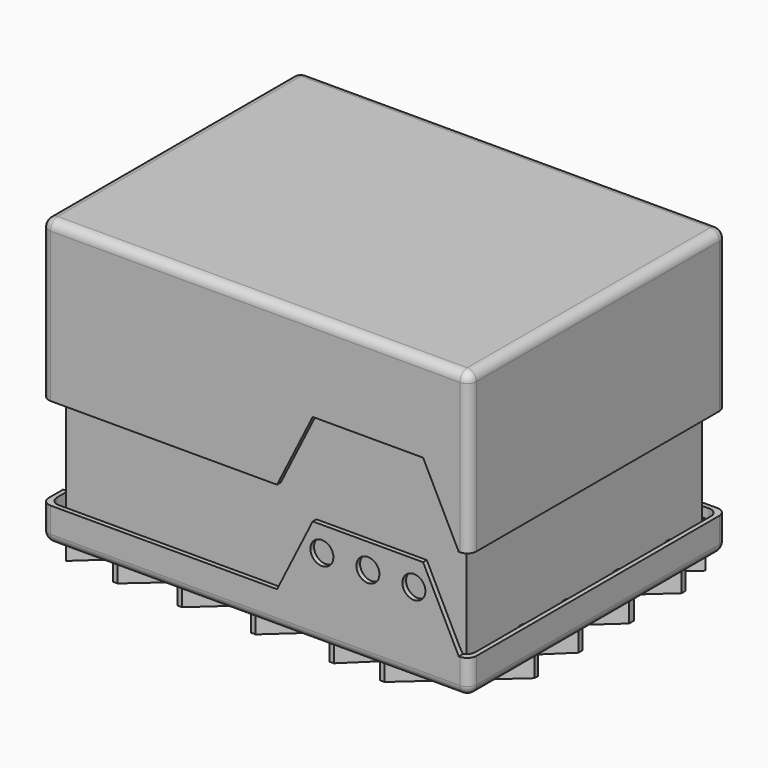
from build123d import *

# Parameters (mm, degrees)
BOX_W                    = 87
BOX_H                    = 64
BOX_DEPTH                = 40
BOX007_W                 = 89
BOX007_H                 = 66
BOX007_DEPTH             = 5
BOX006_W                 = 89
BOX006_H                 = 66
BOX006_DEPTH             = 10
PAD_DEPTH                = 15
PAD001_DEPTH             = 10
BOX005_W                 = 93
BOX005_H                 = 70
BOX005_DEPTH             = 7.5
CYLINDER016_R            = 4
CYLINDER016_DEPTH        = 10
CYLINDER017_R            = 4
CYLINDER017_DEPTH        = 10
CYLINDER014_R            = 1.25
CYLINDER014_DEPTH        = 30
CYLINDER015_R            = 1.75
CYLINDER015_DEPTH        = 5
CYLINDER013_R            = 1.25
CYLINDER013_DEPTH        = 30
CYLINDER012_R            = 1.75
CYLINDER012_DEPTH        = 5
CYLINDER011_R            = 2.5
CYLINDER011_DEPTH        = 10
CYLINDER011_ROLL_ANGLE   = 90
CYLINDER009_R            = 2.5
CYLINDER009_DEPTH        = 10
CYLINDER009_ROLL_ANGLE   = 90
CYLINDER010_R            = 2.5
CYLINDER010_DEPTH        = 10
CYLINDER010_ROLL_ANGLE   = 90
CYLINDER008_R            = 2.5
CYLINDER008_DEPTH        = 10
CYLINDER008_ROLL_ANGLE   = 90
CYLINDER007_R            = 2.5
CYLINDER007_DEPTH        = 10
CYLINDER007_ROLL_ANGLE   = 90
CYLINDER005_R            = 2.5
CYLINDER005_DEPTH        = 10
CYLINDER005_ROLL_ANGLE   = 90
CYLINDER006_R            = 2.5
CYLINDER006_DEPTH        = 10
CYLINDER006_ROLL_ANGLE   = 90
CYLINDER004_R            = 2.5
CYLINDER004_DEPTH        = 10
CYLINDER004_ROLL_ANGLE   = 90
BOX004_W                 = 10.6
BOX004_H                 = 10
BOX004_DEPTH             = 4.5
BOX003_W                 = 10
BOX003_H                 = 41.64
BOX003_DEPTH             = 6.1
CYLINDER_R               = 2.3
CYLINDER_DEPTH           = 5.5
CYLINDER002_R            = 2.3
CYLINDER002_DEPTH        = 5.5
CYLINDER003_R            = 2.3
CYLINDER003_DEPTH        = 41
CYLINDER001_R            = 2.3
CYLINDER001_DEPTH        = 41
BOX001_W                 = 91
BOX001_H                 = 68
BOX001_DEPTH             = 40
FILLET_R                 = 2
FILLET001_R              = 2
FILLET003_R              = 2
BOX002_W                 = 93
BOX002_H                 = 70
BOX002_DEPTH             = 42
FILLET002_R              = 2
CYLINDER019_R            = 3
CYLINDER019_DEPTH        = 6.8
CYLINDER018_R            = 3
CYLINDER018_DEPTH        = 6.8
PAD002_DEPTH             = 2
CLONE002_PLACEMENT_ANGLE = 90
CLONE003_PLACEMENT_ANGLE = 90
CLONE004_PLACEMENT_ANGLE = -90
PAD003_DEPTH             = 10


with BuildPart() as board_dimensions:
    # Box → Box (new body)
    with BuildSketch(Plane.XY):
        with Locations((43.5, 32)):
            Rectangle(BOX_W, BOX_H)
    extrude(amount=BOX_DEPTH)


with BuildPart() as box007:
    # Box007 → Box007 (new body)
    with BuildSketch(Plane(origin=(-1, -1, 0), x_dir=(1, 0, 0), z_dir=(0, 0, 1))):
        with Locations((44.5, 33)):
            Rectangle(BOX007_W, BOX007_H)
    extrude(amount=BOX007_DEPTH)


with BuildPart() as box006:
    # Box006 → Box006 (new body)
    with BuildSketch(Plane(origin=(-1, -1, 0), x_dir=(1, 0, 0), z_dir=(0, 0, 1))):
        with Locations((44.5, 33)):
            Rectangle(BOX006_W, BOX006_H)
    extrude(amount=BOX006_DEPTH)


with BuildPart() as pad:
    # Sketch → Pad (new body, symmetric)
    with BuildSketch(Plane.XZ.offset(-60)):
        Polygon((18, 0), (18, 9), (23, 17), (36, 17), (41, 22), (53, 22), (65, 6), (65, 0), align=None)
    extrude(amount=PAD_DEPTH, both=True)


with BuildPart() as pad001:
    # Sketch001 → Pad001 (new body)
    with BuildSketch(Plane.XZ.offset(-1)):
        Polygon((48, 6), (56, 22), (80, 22), (88, 6), align=None)
    extrude(amount=PAD001_DEPTH)


with BuildPart() as fusion004:
    # Box005 → Box005 (new body)
    with BuildSketch(Plane(origin=(-3, -3, -1), x_dir=(1, 0, 0), z_dir=(0, 0, 1))):
        with Locations((46.5, 35)):
            Rectangle(BOX005_W, BOX005_H)
    extrude(amount=BOX005_DEPTH)

    # Fusion003: union Pad, Pad001
    add(pad.part)
    add(pad001.part)

    # Cut005: cut Box006
    add(box006.part, mode=Mode.SUBTRACT)

    # Fusion004: union Box007
    add(box007.part)


with BuildPart() as cylinder016:
    # Cylinder016 → Cylinder016 (new body)
    with BuildSketch(Plane(origin=(4, 60, -9.9), x_dir=(1, 0, 0), z_dir=(0, 0, 1))):
        Circle(CYLINDER016_R)
    extrude(amount=CYLINDER016_DEPTH)


with BuildPart() as cylinder017:
    # Cylinder017 → Cylinder017 (new body)
    with BuildSketch(Plane(origin=(83, 4, -9.9), x_dir=(1, 0, 0), z_dir=(0, 0, 1))):
        Circle(CYLINDER017_R)
    extrude(amount=CYLINDER017_DEPTH)


with BuildPart() as cone001:
    # Cone001 → Cone001 (revolve)
    with BuildSketch(Plane(origin=(83, 4, 0), x_dir=(1, 0, 0), z_dir=(0, -1, 0))):
        Polygon((0, 0), (4, 0), (2, 2), (0, 2), align=None)
    revolve(axis=Axis((83, 4, 0), (0, 0, 1)))


with BuildPart() as cylinder014:
    # Cylinder014 → Cylinder014 (new body)
    with BuildSketch(Plane(origin=(83, 4, 0), x_dir=(1, 0, 0), z_dir=(0, 0, 1))):
        Circle(CYLINDER014_R)
    extrude(amount=CYLINDER014_DEPTH)


with BuildPart() as fusion006:
    # Cylinder015 → Cylinder015 (new body)
    with BuildSketch(Plane(origin=(83, 4, 0), x_dir=(1, 0, 0), z_dir=(0, 0, 1))):
        Circle(CYLINDER015_R)
    extrude(amount=CYLINDER015_DEPTH)

    # Fusion006: union Cone001, Cylinder014
    add(cone001.part)
    add(cylinder014.part)


with BuildPart() as fusion006_1:
    # Fusion006 placement: moved
    add(fusion006.part.moved(Location((-79, 56, 0))))


with BuildPart() as cone:
    # Cone → Cone (revolve)
    with BuildSketch(Plane(origin=(83, 4, 0), x_dir=(1, 0, 0), z_dir=(0, -1, 0))):
        Polygon((0, 0), (4, 0), (2, 2), (0, 2), align=None)
    revolve(axis=Axis((83, 4, 0), (0, 0, 1)))


with BuildPart() as cylinder013:
    # Cylinder013 → Cylinder013 (new body)
    with BuildSketch(Plane(origin=(83, 4, 0), x_dir=(1, 0, 0), z_dir=(0, 0, 1))):
        Circle(CYLINDER013_R)
    extrude(amount=CYLINDER013_DEPTH)


with BuildPart() as fusion008:
    # Cylinder012 → Cylinder012 (new body)
    with BuildSketch(Plane(origin=(83, 4, 0), x_dir=(1, 0, 0), z_dir=(0, 0, 1))):
        Circle(CYLINDER012_R)
    extrude(amount=CYLINDER012_DEPTH)

    # Fusion005: union Cone, Cylinder013
    add(cone.part)
    add(cylinder013.part)

    # Fusion007: union Fusion006
    add(fusion006_1.part)

    # Fusion008: union Cylinder016, Cylinder017
    add(cylinder016.part)
    add(cylinder017.part)


with BuildPart() as cone002:
    # Cone002 → Cone002 (revolve)
    with BuildSketch(Plane(origin=(4, 60, 0), x_dir=(1, 0, 0), z_dir=(0, -1, 0))):
        Polygon((0, 0), (4.8, 0), (2.3, 2.5), (0, 2.5), align=None)
    revolve(axis=Axis((4, 60, 0), (0, 0, 1)))


with BuildPart() as cone003:
    # Cone003 → Cone003 (revolve)
    with BuildSketch(Plane(origin=(83, 4, 0), x_dir=(1, 0, 0), z_dir=(0, -1, 0))):
        Polygon((0, 0), (4.8, 0), (2.3, 2.5), (0, 2.5), align=None)
    revolve(axis=Axis((83, 4, 0), (0, 0, 1)))


with BuildPart() as cylinder011:
    # Cylinder011 → Cylinder011 (new body)
    with BuildSketch(Plane.XY):
        Circle(CYLINDER011_R)
    extrude(amount=CYLINDER011_DEPTH)


with BuildPart() as cylinder011_1:
    # Cylinder011 roll: moved
    add(cylinder011.part.rotate(Axis((0, 0, 0), (1, 0, 0)), CYLINDER011_ROLL_ANGLE))


with BuildPart() as cylinder011_2:
    # Cylinder011 placement: moved
    add(cylinder011_1.part.moved(Location((78, 5, 16.6))))


with BuildPart() as cylinder009:
    # Cylinder009 → Cylinder009 (new body)
    with BuildSketch(Plane.XY):
        Circle(CYLINDER009_R)
    extrude(amount=CYLINDER009_DEPTH)


with BuildPart() as cylinder009_1:
    # Cylinder009 roll: moved
    add(cylinder009.part.rotate(Axis((0, 0, 0), (1, 0, 0)), CYLINDER009_ROLL_ANGLE))


with BuildPart() as cylinder009_2:
    # Cylinder009 placement: moved
    add(cylinder009_1.part.moved(Location((58, 5, 16.6))))


with BuildPart() as cylinder010:
    # Cylinder010 → Cylinder010 (new body)
    with BuildSketch(Plane.XY):
        Circle(CYLINDER010_R)
    extrude(amount=CYLINDER010_DEPTH)


with BuildPart() as cylinder010_1:
    # Cylinder010 roll: moved
    add(cylinder010.part.rotate(Axis((0, 0, 0), (1, 0, 0)), CYLINDER010_ROLL_ANGLE))


with BuildPart() as cylinder010_2:
    # Cylinder010 placement: moved
    add(cylinder010_1.part.moved(Location((68, 5, 16.6))))


with BuildPart() as cylinder008:
    # Cylinder008 → Cylinder008 (new body)
    with BuildSketch(Plane.XY):
        Circle(CYLINDER008_R)
    extrude(amount=CYLINDER008_DEPTH)


with BuildPart() as cylinder008_1:
    # Cylinder008 roll: moved
    add(cylinder008.part.rotate(Axis((0, 0, 0), (1, 0, 0)), CYLINDER008_ROLL_ANGLE))


with BuildPart() as cylinder008_2:
    # Cylinder008 placement: moved
    add(cylinder008_1.part.moved(Location((50.55, 72, 16.6))))


with BuildPart() as fusion002:
    # Cylinder007 → Cylinder007 (new body)
    with BuildSketch(Plane.XY):
        Circle(CYLINDER007_R)
    extrude(amount=CYLINDER007_DEPTH)


with BuildPart() as fusion002_1:
    # Cylinder007 roll: moved
    add(fusion002.part.rotate(Axis((0, 0, 0), (1, 0, 0)), CYLINDER007_ROLL_ANGLE))


with BuildPart() as fusion002_2:
    # Cylinder007 placement: moved
    add(fusion002_1.part.moved(Location((42.9, 72, 16.6))))

    # Fusion002: union Cylinder011, Cylinder009, Cylinder010, Cylinder008
    add(cylinder011_2.part)
    add(cylinder009_2.part)
    add(cylinder010_2.part)
    add(cylinder008_2.part)


with BuildPart() as cylinder005:
    # Cylinder005 → Cylinder005 (new body)
    with BuildSketch(Plane.XY):
        Circle(CYLINDER005_R)
    extrude(amount=CYLINDER005_DEPTH)


with BuildPart() as cylinder005_1:
    # Cylinder005 roll: moved
    add(cylinder005.part.rotate(Axis((0, 0, 0), (1, 0, 0)), CYLINDER005_ROLL_ANGLE))


with BuildPart() as cylinder005_2:
    # Cylinder005 placement: moved
    add(cylinder005_1.part.moved(Location((31.5, 71, 11.6))))


with BuildPart() as cylinder006:
    # Cylinder006 → Cylinder006 (new body)
    with BuildSketch(Plane.XY):
        Circle(CYLINDER006_R)
    extrude(amount=CYLINDER006_DEPTH)


with BuildPart() as cylinder006_1:
    # Cylinder006 roll: moved
    add(cylinder006.part.rotate(Axis((0, 0, 0), (1, 0, 0)), CYLINDER006_ROLL_ANGLE))


with BuildPart() as cylinder006_2:
    # Cylinder006 placement: moved
    add(cylinder006_1.part.moved(Location((37, 71, 11.6))))


with BuildPart() as leds_cutout:
    # Cylinder004 → Cylinder004 (new body)
    with BuildSketch(Plane.XY):
        Circle(CYLINDER004_R)
    extrude(amount=CYLINDER004_DEPTH)


with BuildPart() as leds_cutout_1:
    # Cylinder004 roll: moved
    add(leds_cutout.part.rotate(Axis((0, 0, 0), (1, 0, 0)), CYLINDER004_ROLL_ANGLE))


with BuildPart() as leds_cutout_2:
    # Cylinder004 placement: moved
    add(leds_cutout_1.part.moved(Location((26, 71, 11.6))))

    # Fusion001: union Cylinder005, Cylinder006
    add(cylinder005_2.part)
    add(cylinder006_2.part)


with BuildPart() as usb_cutout:
    # Box004 → Box004 (new body)
    with BuildSketch(Plane(origin=(8.52, 61, 6.1), x_dir=(1, 0, 0), z_dir=(0, 0, 1))):
        with Locations((5.3, 5)):
            Rectangle(BOX004_W, BOX004_H)
    extrude(amount=BOX004_DEPTH)


with BuildPart() as side_pin_array_cutout:
    # Box003 → Box003 (new body)
    with BuildSketch(Plane(origin=(-6, 2.9, 6.1), x_dir=(1, 0, 0), z_dir=(0, 0, 1))):
        with Locations((5, 20.82)):
            Rectangle(BOX003_W, BOX003_H)
    extrude(amount=BOX003_DEPTH)


with BuildPart() as cylinder:
    # Cylinder → Cylinder (new body)
    with BuildSketch(Plane(origin=(4, 4.5, -0.5), x_dir=(1, 0, 0), z_dir=(0, 0, 1))):
        Circle(CYLINDER_R)
    extrude(amount=CYLINDER_DEPTH)


with BuildPart() as cylinder002:
    # Cylinder002 → Cylinder002 (new body)
    with BuildSketch(Plane(origin=(83, 60, -0.5), x_dir=(1, 0, 0), z_dir=(0, 0, 1))):
        Circle(CYLINDER002_R)
    extrude(amount=CYLINDER002_DEPTH)


with BuildPart() as cylinder003:
    # Cylinder003 → Cylinder003 (new body)
    with BuildSketch(Plane(origin=(4, 60, -0.5), x_dir=(1, 0, 0), z_dir=(0, 0, 1))):
        Circle(CYLINDER003_R)
    extrude(amount=CYLINDER003_DEPTH)


with BuildPart() as cylinder001:
    # Cylinder001 → Cylinder001 (new body)
    with BuildSketch(Plane(origin=(83, 4, -0.5), x_dir=(1, 0, 0), z_dir=(0, 0, 1))):
        Circle(CYLINDER001_R)
    extrude(amount=CYLINDER001_DEPTH)


with BuildPart() as inner_cutout001:
    # Box001 → Box001 (new body)
    with BuildSketch(Plane(origin=(-2, -2, 0), x_dir=(1, 0, 0), z_dir=(0, 0, 1))):
        with Locations((45.5, 34)):
            Rectangle(BOX001_W, BOX001_H)
    extrude(amount=BOX001_DEPTH)

    # Fillet
    fillet_edges = [inner_cutout001.edges().sort_by_distance(p)[0] for p in [
        (89, -2, 20),
        (-2, -2, 20),
        (89, 66, 20),
        (-2, 66, 20),
    ]]
    fillet(fillet_edges, radius=FILLET_R)

    # Fillet001
    fillet001_edges = [inner_cutout001.edges().sort_by_distance(p)[0] for p in [
        (-2, 32, 0),
        (-1.414214, -1.414214, 0),
        (-1.414214, 65.414214, 0),
        (43.5, -2, 0),
        (43.5, 66, 0),
        (88.414214, -1.414214, 0),
        (88.414214, 65.414214, 0),
        (89, 32, 0),
    ]]
    fillet(fillet001_edges, radius=FILLET001_R)

    # Fillet003
    fillet003_edges = [inner_cutout001.edges().sort_by_distance(p)[0] for p in [
        (-2, 32, 40),
        (-1.414214, -1.414214, 40),
        (-1.414214, 65.414214, 40),
        (43.5, -2, 40),
        (43.5, 66, 40),
        (88.414214, -1.414214, 40),
        (88.414214, 65.414214, 40),
        (89, 32, 40),
    ]]
    fillet(fillet003_edges, radius=FILLET003_R)


with BuildPart() as case_with_screw_holes:
    # Box002 → Box002 (new body)
    with BuildSketch(Plane(origin=(-3, -3, -1), x_dir=(1, 0, 0), z_dir=(0, 0, 1))):
        with Locations((46.5, 35)):
            Rectangle(BOX002_W, BOX002_H)
    extrude(amount=BOX002_DEPTH)

    # Fillet002
    fillet002_edges = [case_with_screw_holes.edges().sort_by_distance(p)[0] for p in [
        (43.5, -3, -1),
        (43.5, 67, 41),
        (90, 32, 41),
        (90, 67, 20),
        (90, 32, -1),
        (90, -3, 20),
        (43.5, -3, 41),
        (-3, -3, 20),
        (-3, 32, 41),
        (-3, 67, 20),
        (-3, 32, -1),
        (43.5, 67, -1),
    ]]
    fillet(fillet002_edges, radius=FILLET002_R)

    # Cut: cut inner-cutout001
    add(inner_cutout001.part, mode=Mode.SUBTRACT)

    # Fusion: union Cylinder, Cylinder002, Cylinder003, Cylinder001
    add(cylinder.part)
    add(cylinder002.part)
    add(cylinder003.part)
    add(cylinder001.part)

    # Cut001: cut side-pin-array-cutout
    add(side_pin_array_cutout.part, mode=Mode.SUBTRACT)

    # Cut002: cut usb-cutout
    add(usb_cutout.part, mode=Mode.SUBTRACT)

    # Cut003: cut leds-cutout
    add(leds_cutout_2.part, mode=Mode.SUBTRACT)

    # Cut004: cut Fusion002
    add(fusion002_2.part, mode=Mode.SUBTRACT)

    # Fusion009: union Cone002, Cone003
    add(cone002.part)
    add(cone003.part)

    # Cut006: cut Fusion008
    add(fusion008.part, mode=Mode.SUBTRACT)


with BuildPart() as case_lower_part:
    # Common base: copy of case-with-screw-holes
    add(case_with_screw_holes.part)

    # Common: intersect Fusion004
    add(fusion004.part, mode=Mode.INTERSECT)


with BuildPart() as cylinder019:
    # Cylinder019 → Cylinder019 (new body)
    with BuildSketch(Plane(origin=(83, 4, 0), x_dir=(1, 0, 0), z_dir=(0, 0, 1))):
        Circle(CYLINDER019_R)
    extrude(amount=CYLINDER019_DEPTH)


with BuildPart() as fusion010:
    # Cylinder018 → Cylinder018 (new body)
    with BuildSketch(Plane(origin=(4, 60, 0), x_dir=(1, 0, 0), z_dir=(0, 0, 1))):
        Circle(CYLINDER018_R)
    extrude(amount=CYLINDER018_DEPTH)

    # Fusion010: union Cylinder019
    add(cylinder019.part)


with BuildPart() as case_upper_part:
    # Cut007 base: copy of case-with-screw-holes
    add(case_with_screw_holes.part)

    # Cut007: cut Fusion004
    add(fusion004.part, mode=Mode.SUBTRACT)

    # Cut008: cut Fusion010
    add(fusion010.part, mode=Mode.SUBTRACT)


with BuildPart() as case_upper_part_1:
    # Cut008 placement: moved
    add(case_upper_part.part.moved(Location((0, 0, 20))))


with BuildPart() as pad002:
    # Sketch002 → Pad002 (new body)
    with BuildSketch(Plane.XZ.offset(-2)):
        Polygon((-2, 28), (-2, 26.4916), (-1, 25.687011), (-1, 27), align=None)
    extrude(amount=PAD002_DEPTH)


with BuildPart() as clone_of_pad002:
    # Clone base: copy of Pad002
    add(pad002.part)


with BuildPart() as clone_of_pad002_1:
    # Clone placement: moved
    add(clone_of_pad002.part.moved(Location((0, 45, 0))))


with BuildPart() as clone_of_pad003:
    # Clone001 base: copy of Pad002
    add(pad002.part)


with BuildPart() as clone_of_pad003_1:
    # Clone001 placement: moved
    add(clone_of_pad003.part.moved(Location((0, 62, 0))))


with BuildPart() as clone_of_pad004:
    # Clone002 base: copy of Pad002
    add(pad002.part)


with BuildPart() as clone_of_pad004_1:
    # Clone002 placement: moved
    add(clone_of_pad004.part.moved(Location((2, 0, 0))).rotate(Axis((2, 0, 0), (0, 0, 1)), CLONE002_PLACEMENT_ANGLE))


with BuildPart() as clone_of_pad005:
    # Clone003 base: copy of Pad002
    add(pad002.part)


with BuildPart() as clone_of_pad005_1:
    # Clone003 placement: moved
    add(clone_of_pad005.part.moved(Location((46, 0, 0))).rotate(Axis((46, 0, 0), (0, 0, 1)), CLONE003_PLACEMENT_ANGLE))


with BuildPart() as clone_of_pad006:
    # Clone004 base: copy of Pad002
    add(pad002.part)


with BuildPart() as clone_of_pad006_1:
    # Clone004 placement: moved
    add(clone_of_pad006.part.moved(Location((0, 64, 0))).rotate(Axis((0, 64, 0), (0, 0, 1)), CLONE004_PLACEMENT_ANGLE))


with BuildPart() as pad003:
    # Sketch003 → Pad003 (new body)
    with BuildSketch(Plane.XY.offset(-5)):
        Polygon((-1, 49), (18, 65), (19, 65), (-1, 48), align=None)
        Polygon((-1, 39), (29, 65), (30, 65), (-1, 38), align=None)
        Polygon((44, 64.79557), (-1, 25), (-1, 24), (45, 64.79557), align=None)
        Polygon((54, 65), (-1, 12), (-1, 11), (55, 65), align=None)
        Polygon((70, 65), (0, 1), (0, 0), (71, 65), align=None)
        Polygon((12, -1), (11, -1), (86, 65), (87, 65), align=None)
        Polygon((25, -1), (89, 57), (89, 56), (26, -1), align=None)
        Polygon((41, -1), (89, 43), (89, 41.74638), (42, -1), align=None)
        Polygon((58, -1), (59, -1), (89, 28), (89, 29), align=None)
        Polygon((69, -1), (70, -1), (89, 16), (89, 17), align=None)
    extrude(amount=PAD003_DEPTH)


solid = Compound([board_dimensions.part, case_lower_part.part, case_upper_part_1.part, pad002.part, clone_of_pad002_1.part, clone_of_pad003_1.part, clone_of_pad004_1.part, clone_of_pad005_1.part, clone_of_pad006_1.part, pad003.part])
